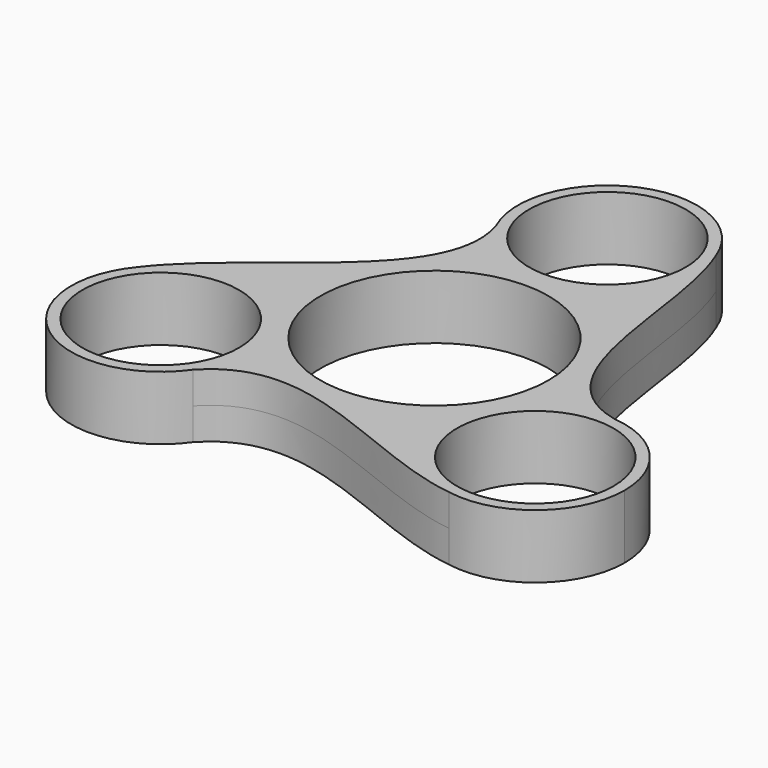
from build123d import *

# Parameters (mm, degrees)
F0_R     = 28.067
F0_R_2   = 40.894
F1_DEPTH = 11.43


with BuildPart() as f1:
    # F0 (on Top) → F1 (new body, symmetric)
    with BuildSketch(Plane.XY):
        with BuildLine():
            ThreePointArc((-39.96043, -56.685273), (-35.633978, -47.925871), (-34.145784, -38.270273))
            ThreePointArc((-34.145784, -38.270273), (-55.239867, -8.13875), (-90.770633, -17.648411))
            ThreePointArc((-90.770633, -17.648411), (-85.750117, -63.699325), (-39.96043, -56.685273))
        make_face()
        with Locations((-66.213284, -38.270273)):
            Circle(F0_R, mode=Mode.SUBTRACT)
        with BuildLine():
            ThreePointArc((-90.770633, -17.648411), (-55.239867, -8.13875), (-34.145784, -38.270273))
            ThreePointArc((-34.145784, -38.270273), (-35.633978, -47.925871), (-39.96043, -56.685273))
            add(Edge.make_bspline(
                [(-39.96043, -56.685273), (-15.055393, -29.895963), (28.272031, -65.460931), (62.38831, -69.848491)],
                knots=[0, 0, 0, 0, 103.191739, 103.191739, 103.191739, 103.191739], degree=3))
            ThreePointArc((62.38831, -69.848491), (36.17807, -34.065405), (70.790123, -6.327134))
            add(Edge.make_bspline(
                [(70.790123, -6.327134), (35.137381, 1.846606), (44.273835, 57.15174), (31.015434, 88.891084)],
                knots=[0, 0, 0, 0, 103.191739, 103.191739, 103.191739, 103.191739], degree=3))
            ThreePointArc((31.015434, 88.891084), (32.459077, 83.49723), (32.945204, 77.934727))
            ThreePointArc((32.945204, 77.934727), (7.805363, 46.624472), (-28.196581, 64.406589))
            add(Edge.make_bspline(
                [(-28.196581, 64.406589), (-17.448877, 29.443539), (-69.912755, 9.703373), (-90.770633, -17.648411)],
                knots=[0, 0, 0, 0, 103.191739, 103.191739, 103.191739, 103.191739], degree=3))
        make_face()
        with Locations((0.877704, 0.464727)):
            Circle(F0_R_2, mode=Mode.SUBTRACT)
        with BuildLine():
            ThreePointArc((31.015434, 88.891084), (-11.376085, 107.568647), (-28.196581, 64.406589))
            ThreePointArc((-28.196581, 64.406589), (7.805363, 46.624472), (32.945204, 77.934727))
            ThreePointArc((32.945204, 77.934727), (32.459077, 83.49723), (31.015434, 88.891084))
        make_face()
        with Locations((0.877704, 77.934727)):
            Circle(F0_R, mode=Mode.SUBTRACT)
        with BuildLine():
            ThreePointArc((70.790123, -6.327134), (36.17807, -34.065405), (62.38831, -69.848491))
            ThreePointArc((62.38831, -69.848491), (88.576647, -62.839292), (100.036192, -38.270273))
            ThreePointArc((100.036192, -38.270273), (91.620339, -16.615616), (70.790123, -6.327134))
        make_face()
        with Locations((67.968692, -38.270273)):
            Circle(F0_R, mode=Mode.SUBTRACT)
    extrude(amount=F1_DEPTH, both=True)


solid = f1.part
